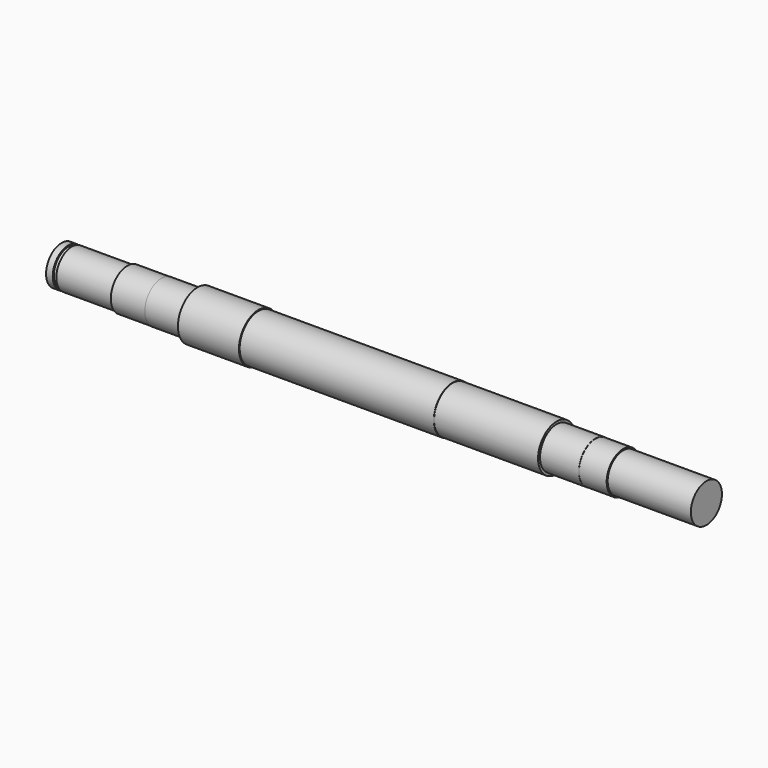
from build123d import *


with BuildPart() as f1:
    # F0 (on Front) → F1 (revolve)
    with BuildSketch(Plane.XZ):
        Polygon((-116, 7), (-116, 0), (116.5, 0), (116.5, 7), (86.5, 7), (86.5, 7.45), (76.5, 7.45), (76.5, 7.5), (62.5, 7.5), (62.5, 8.375), (25, 8.375), (25, 8.5), (-45, 8.5), (-45, 8.825), (-67, 8.825), (-67, 7.5), (-80, 7.5), (-80, 7.45), (-92.3, 7.45), (-92.3, 7), (-112.3, 7), (-112.3, 6.5), (-113.6, 6.5), (-113.6, 7), align=None)
    revolve(axis=Axis((0, 0, 0), (1, 0, 0)))


solid = f1.part
